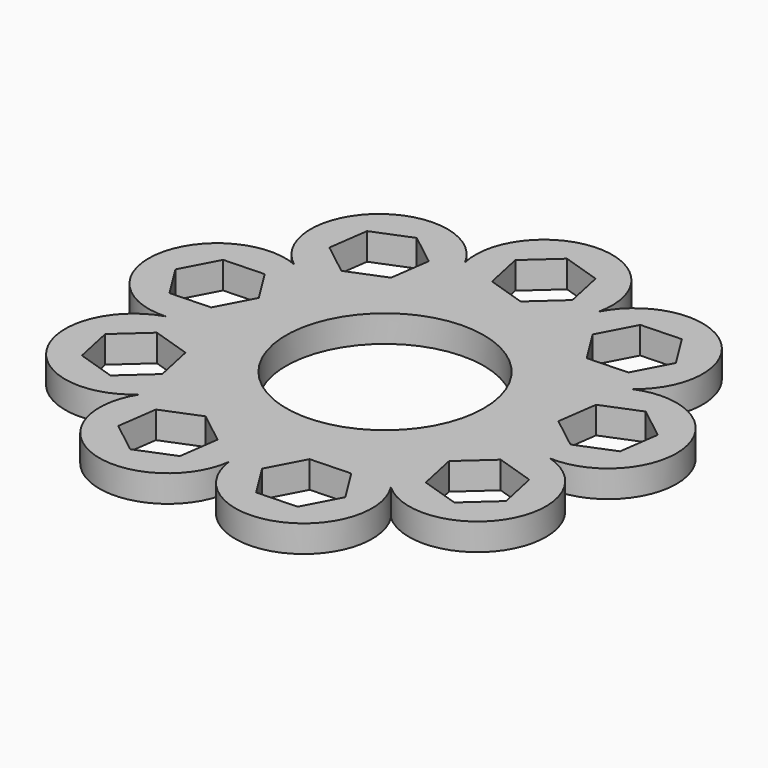
from build123d import *

# Parameters (mm, degrees)
F0_R     = 11
F1_DEPTH = 3


with BuildPart() as f1:
    # F0 (on Top) → F1 (new body)
    with BuildSketch(Plane.XY):
        with BuildLine():
            ThreePointArc((18.814356, 10.862473), (19.086564, 22.746481), (7.430369, 20.414772))
            ThreePointArc((7.430369, 20.414772), (0, 29.693422), (-7.430369, 20.414772))
            ThreePointArc((-7.430369, 20.414772), (-19.086564, 22.746481), (-18.814356, 10.862473))
            ThreePointArc((-18.814356, 10.862473), (-29.242312, 5.156209), (-21.394896, -3.772497))
            ThreePointArc((-21.394896, -3.772497), (-25.715258, -14.846711), (-13.964527, -16.642275))
            ThreePointArc((-13.964527, -16.642275), (-10.155749, -27.90269), (0, -21.724947))
            ThreePointArc((0, -21.724947), (10.155749, -27.90269), (13.964527, -16.642275))
            ThreePointArc((13.964527, -16.642275), (25.715258, -14.846711), (21.394896, -3.772497))
            ThreePointArc((21.394896, -3.772497), (29.242312, 5.156209), (18.814356, 10.862473))
        make_face()
        Polygon((-8.172866, -25.207694), (-11.72485, -22.439407), (-11.103435, -17.979156), (-6.930037, -16.287191), (-3.378053, -19.055477), (-3.999467, -23.515729), align=None, mode=Mode.SUBTRACT)
        Polygon((-22.463972, -14.056797), (-23.405529, -9.652995), (-20.062503, -6.635682), (-15.77792, -8.02217), (-14.836363, -12.425972), (-18.179389, -15.443285), align=None, mode=Mode.SUBTRACT)
        Polygon((9.942415, -24.563631), (5.442017, -24.726171), (3.051054, -20.909983), (5.160488, -16.931254), (9.660886, -16.768713), (12.051849, -20.584901), align=None, mode=Mode.SUBTRACT)
        Circle(F0_R, mode=Mode.SUBTRACT)
        Polygon((23.405529, -12.425972), (20.062503, -15.443285), (15.77792, -14.056797), (14.836363, -9.652995), (18.179389, -6.635682), (22.463972, -8.02217), align=None, mode=Mode.SUBTRACT)
        Polygon((-26.243935, 3.671432), (-24.134501, 7.650161), (-19.634103, 7.812702), (-17.24314, 3.996513), (-19.352574, 0.017784), (-23.852972, -0.144757), align=None, mode=Mode.SUBTRACT)
        Polygon((-17.74407, 19.681756), (-13.570672, 21.373721), (-10.018688, 18.605435), (-10.640102, 14.145183), (-14.813501, 12.453218), (-18.365485, 15.221505), align=None, mode=Mode.SUBTRACT)
        Polygon((3.343026, 25.09628), (4.284583, 20.692478), (0.941557, 17.675165), (-3.343026, 19.061653), (-4.284583, 23.465455), (-0.941557, 26.482768), align=None, mode=Mode.SUBTRACT)
        Polygon((25.916936, 5.525937), (25.295521, 1.065686), (21.122123, -0.626279), (17.570139, 2.142007), (18.191554, 6.602259), (22.364952, 8.294224), align=None, mode=Mode.SUBTRACT)
        Polygon((16.301521, 20.892199), (18.692484, 17.07601), (16.58305, 13.097281), (12.082652, 12.934741), (9.691688, 16.750929), (11.801123, 20.729658), align=None, mode=Mode.SUBTRACT)
    extrude(amount=F1_DEPTH)


solid = f1.part
